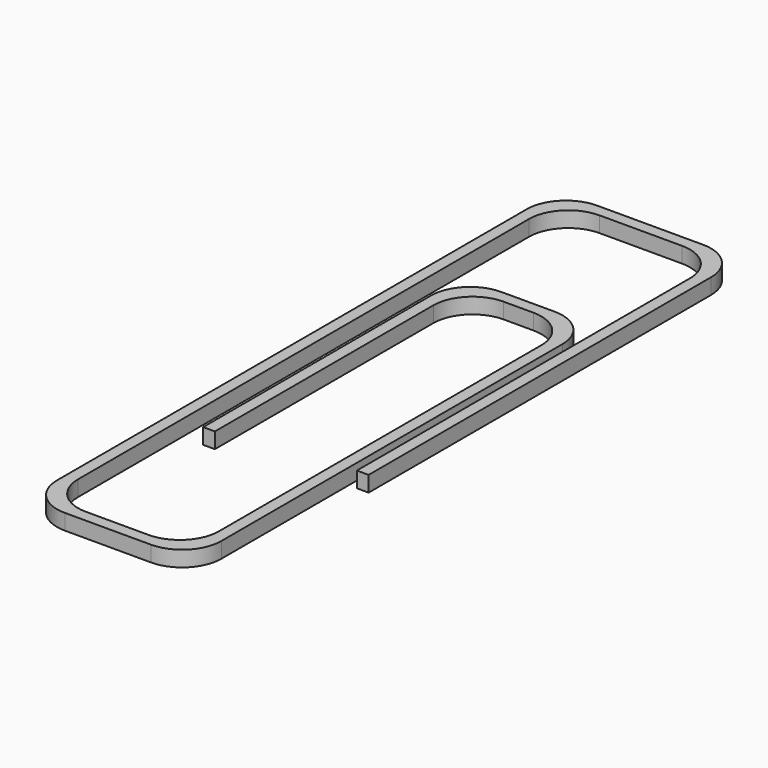
from build123d import *

# Parameters (mm, degrees)
F1_DEPTH = 2
F2_R     = 5


with BuildPart() as f1:
    # F0 (on Top) → F1 (new body)
    with BuildSketch(Plane.XY):
        Polygon((12.294445, 40.993364), (12.294444, -17.206637), (13.794444, -17.206637), (13.794444, 42.493364), (-9.755554, 42.493364), (-9.755554, -42.556638), (11.244445, -42.556638), (11.244445, 21.943362), (-5.555555, 21.943362), (-5.555555, -19.456636), (-4.055555, -19.456636), (-4.055555, 20.443362), (9.744445, 20.443362), (9.744445, -41.056638), (-8.255554, -41.056638), (-8.255554, 40.993364), align=None)
    extrude(amount=F1_DEPTH)

    # F2
    f2_edges = [f1.edges().sort_by_distance(p)[0] for p in [
        (-9.755554, 42.493364, 1),
        (-8.255554, 40.993364, 1),
        (12.294445, 40.993364, 1),
        (13.794444, 42.493364, 1),
        (-9.755554, -42.556638, 1),
        (-8.255554, -41.056638, 1),
        (9.744445, -41.056638, 1),
        (11.244445, -42.556638, 1),
        (-5.555555, 21.943362, 1),
        (11.244445, 21.943362, 1),
        (9.744445, 20.443362, 1),
        (-4.055555, 20.443362, 1),
    ]]
    fillet(f2_edges, radius=F2_R)


solid = f1.part
